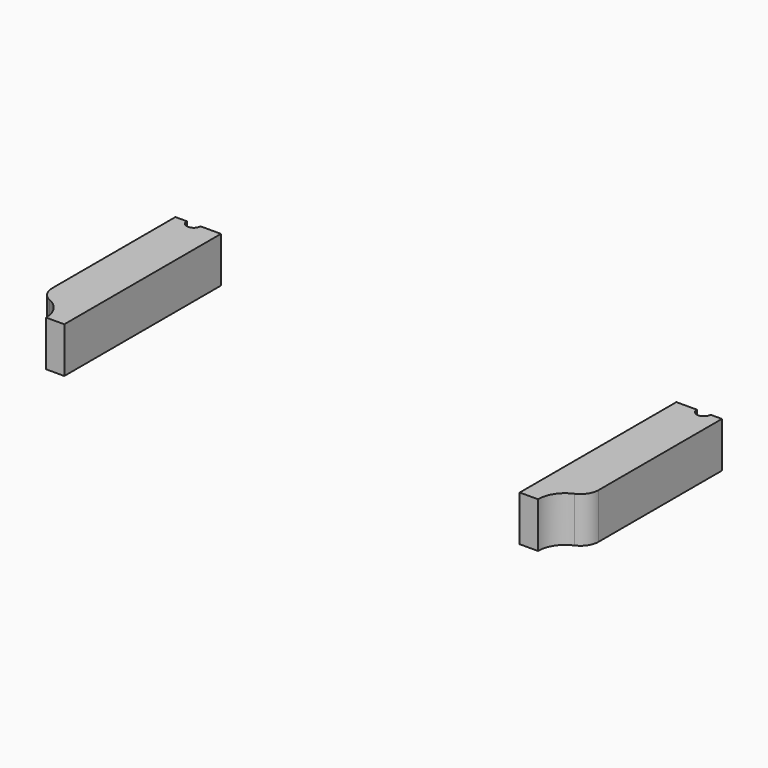
from build123d import *

# Parameters (mm, degrees)
CYLINDER301_R               = 6
CYLINDER301_DEPTH           = 10
CYLINDER300_R               = 6
CYLINDER300_DEPTH           = 10
CYLINDER302_R               = 1.5
CYLINDER302_DEPTH           = 20
CYLINDER302_PLACEMENT_ANGLE = 45
CYLINDER306_R               = 1.5
CYLINDER306_DEPTH           = 20
CYLINDER303_R               = 1.5
CYLINDER303_DEPTH           = 20
CYLINDER303_PLACEMENT_ANGLE = 135
CYLINDER307_R               = 1.5
CYLINDER307_DEPTH           = 20
CYLINDER304_R               = 1.5
CYLINDER304_DEPTH           = 20
CYLINDER304_PLACEMENT_ANGLE = 225
CYLINDER308_R               = 1.5
CYLINDER308_DEPTH           = 20
CYLINDER305_R               = 1.5
CYLINDER305_DEPTH           = 20
CYLINDER305_PLACEMENT_ANGLE = 45
CYLINDER309_R               = 1.5
CYLINDER309_DEPTH           = 20
BOX108_W                    = 10
BOX108_H                    = 43
BOX108_DEPTH                = 10
BOX109_W                    = 10
BOX109_H                    = 43
BOX109_DEPTH                = 10
FILLET002_R                 = 4


with BuildPart() as obj1:
    # Cylinder301 → Cylinder301 (new body)
    with BuildSketch(Plane(origin=(-60, -43, 10), x_dir=(1, 0, 0), z_dir=(0, 0, 1))):
        Circle(CYLINDER301_R)
    extrude(amount=CYLINDER301_DEPTH)


with BuildPart() as compound241:
    # Cylinder300 → Cylinder300 (new body)
    with BuildSketch(Plane(origin=(60, -43, 10), x_dir=(1, 0, 0), z_dir=(0, 0, 1))):
        Circle(CYLINDER300_R)
    extrude(amount=CYLINDER300_DEPTH)

    # Compound241: union obj1
    add(obj1.part)


with BuildPart() as obj2:
    # Cylinder302 → Cylinder302 (new body)
    with BuildSketch(Plane.XY):
        Circle(CYLINDER302_R)
    extrude(amount=CYLINDER302_DEPTH)


with BuildPart() as obj2_1:
    # Cylinder302 placement: moved
    add(obj2.part.moved(Location((39.59798, -39.59798, 2))).rotate(Axis((39.59798, -39.59798, 2), (0, 0, 1)), CYLINDER302_PLACEMENT_ANGLE))


with BuildPart() as obj3:
    # Cylinder306 → Cylinder306 (new body)
    with BuildSketch(Plane(origin=(56, 0, 2), x_dir=(0, 1, 0), z_dir=(0, 0, 1))):
        Circle(CYLINDER306_R)
    extrude(amount=CYLINDER306_DEPTH)


with BuildPart() as obj4:
    # Cylinder303 → Cylinder303 (new body)
    with BuildSketch(Plane.XY):
        Circle(CYLINDER303_R)
    extrude(amount=CYLINDER303_DEPTH)


with BuildPart() as obj4_1:
    # Cylinder303 placement: moved
    add(obj4.part.moved(Location((39.59798, 39.59798, 2))).rotate(Axis((39.59798, 39.59798, 2), (0, 0, 1)), CYLINDER303_PLACEMENT_ANGLE))


with BuildPart() as obj5:
    # Cylinder307 → Cylinder307 (new body)
    with BuildSketch(Plane(origin=(0, 56, 2), x_dir=(-1, 0, 0), z_dir=(0, 0, 1))):
        Circle(CYLINDER307_R)
    extrude(amount=CYLINDER307_DEPTH)


with BuildPart() as obj6:
    # Cylinder304 → Cylinder304 (new body)
    with BuildSketch(Plane.XY):
        Circle(CYLINDER304_R)
    extrude(amount=CYLINDER304_DEPTH)


with BuildPart() as obj6_1:
    # Cylinder304 placement: moved
    add(obj6.part.moved(Location((-39.59798, 39.59798, 2))).rotate(Axis((-39.59798, 39.59798, 2), (0, 0, 1)), CYLINDER304_PLACEMENT_ANGLE))


with BuildPart() as obj7:
    # Cylinder308 → Cylinder308 (new body)
    with BuildSketch(Plane(origin=(-56, 0, 2), x_dir=(0, -1, 0), z_dir=(0, 0, 1))):
        Circle(CYLINDER308_R)
    extrude(amount=CYLINDER308_DEPTH)


with BuildPart() as obj8:
    # Cylinder305 → Cylinder305 (new body)
    with BuildSketch(Plane.XY):
        Circle(CYLINDER305_R)
    extrude(amount=CYLINDER305_DEPTH)


with BuildPart() as obj8_1:
    # Cylinder305 placement: moved
    add(obj8.part.moved(Location((-39.59798, -39.59798, 2))).rotate(Axis((-39.59798, -39.59798, 2), (0, 0, -1)), CYLINDER305_PLACEMENT_ANGLE))


with BuildPart() as compound240:
    # Cylinder309 → Cylinder309 (new body)
    with BuildSketch(Plane(origin=(0, -56, 2), x_dir=(1, 0, 0), z_dir=(0, 0, 1))):
        Circle(CYLINDER309_R)
    extrude(amount=CYLINDER309_DEPTH)

    # Compound240: union obj2, obj3, obj4, obj5, obj6, obj7, obj8
    add(obj2_1.part)
    add(obj3.part)
    add(obj4_1.part)
    add(obj5.part)
    add(obj6_1.part)
    add(obj7.part)
    add(obj8_1.part)


with BuildPart() as krychle108:
    # Box108 → Box108 (new body)
    with BuildSketch(Plane(origin=(50, -43, 10), x_dir=(1, 0, 0), z_dir=(0, 0, 1))):
        with Locations((5, 21.5)):
            Rectangle(BOX108_W, BOX108_H)
    extrude(amount=BOX108_DEPTH)


with BuildPart() as fillet002:
    # Box109 → Box109 (new body)
    with BuildSketch(Plane(origin=(-60, -43, 10), x_dir=(1, 0, 0), z_dir=(0, 0, 1))):
        with Locations((5, 21.5)):
            Rectangle(BOX109_W, BOX109_H)
    extrude(amount=BOX109_DEPTH)

    # Compound239: union Krychle108
    add(krychle108.part)

    # Cut129: cut Compound240
    add(compound240.part, mode=Mode.SUBTRACT)

    # Cut130: cut Compound241
    add(compound241.part, mode=Mode.SUBTRACT)

    # Fillet002
    fillet002_edges = [fillet002.edges().sort_by_distance(p)[0] for p in [
        (-60, -37, 15),
        (60, -37, 15),
    ]]
    fillet(fillet002_edges, radius=FILLET002_R)


solid = fillet002.part
